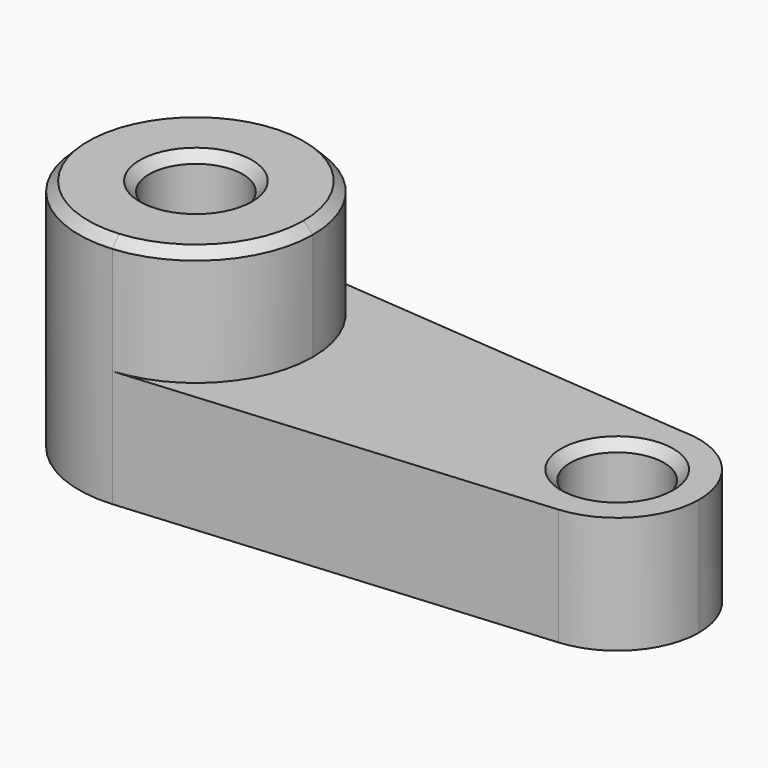
from build123d import *

# Parameters (mm, degrees)
F0_R     = 10
F1_DEPTH = 25
F2_DEPTH = 50
F3_SIZE  = 2


with BuildPart() as f1:
    # F0 (on Top) → F1 (new body)
    with BuildSketch(Plane.XY):
        with BuildLine():
            ThreePointArc((2.083333, -24.913043), (18.399502, -16.92508), (25, 0))
            ThreePointArc((25, 0), (18.40534, 16.918731), (2.100522, 24.9116))
            ThreePointArc((2.100522, 24.9116), (-24.999999, 0.008625), (2.083333, -24.913043))
        make_face()
        Circle(F0_R, mode=Mode.SUBTRACT)
        with BuildLine():
            ThreePointArc((2.100522, 24.9116), (18.40534, 16.918731), (25, 0))
            ThreePointArc((25, 0), (18.399502, -16.92508), (2.083333, -24.913043))
            Line((2.083333, -24.913043), (91.458333, -17.43913))
            ThreePointArc((91.458333, -17.43913), (72.515224, -0.729802), (90, 17.5))
            Line((90, 17.5), (2.100522, 24.9116))
        make_face()
        with BuildLine():
            ThreePointArc((107.5, 0), (102.374369, 12.374369), (90, 17.5))
            ThreePointArc((90, 17.5), (72.515224, -0.729802), (91.458333, -17.43913))
            ThreePointArc((91.458333, -17.43913), (102.879651, -11.847556), (107.5, 0))
        make_face()
        with Locations((90, 0)):
            Circle(F0_R, mode=Mode.SUBTRACT)
    extrude(amount=F1_DEPTH)

    # F0 (on Top) → F2 (join)
    with BuildSketch(Plane.XY):
        with BuildLine():
            ThreePointArc((2.083333, -24.913043), (18.399502, -16.92508), (25, 0))
            ThreePointArc((25, 0), (18.40534, 16.918731), (2.100522, 24.9116))
            ThreePointArc((2.100522, 24.9116), (-24.999999, 0.008625), (2.083333, -24.913043))
        make_face()
        Circle(F0_R, mode=Mode.SUBTRACT)
    extrude(amount=F2_DEPTH)

    # F3
    f3_edges = [f1.edges().sort_by_distance(p)[0] for p in [
        (-2.083333, 24.913043, 50),
        (80, 0, 25),
        (-10, 0, 50),
    ]]
    chamfer(f3_edges, length=F3_SIZE)


solid = f1.part
